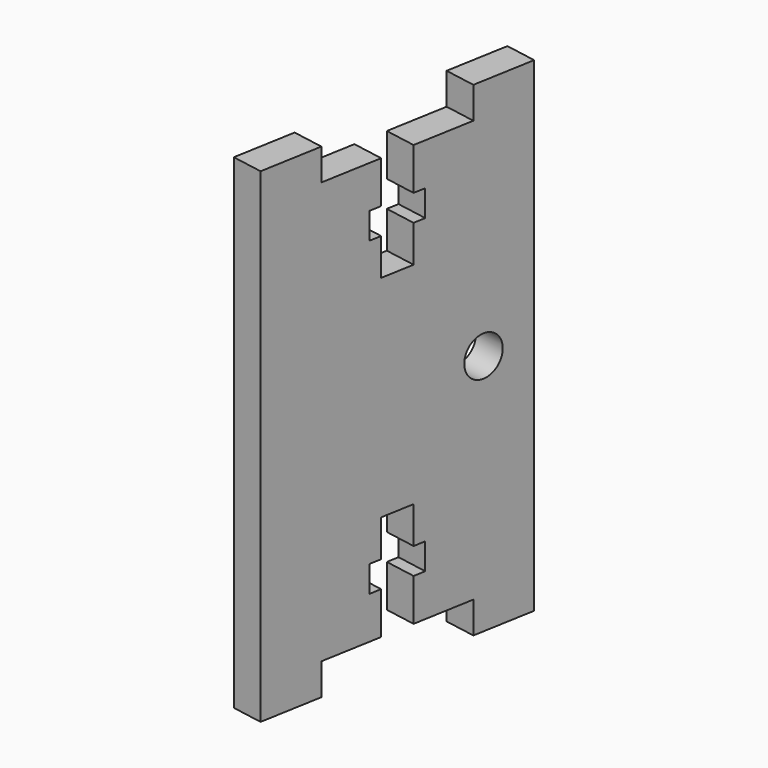
from build123d import *

# Parameters (mm, degrees)
SKETCH020_W             = 40
SKETCH020_H             = 27
SKETCH020_R             = 1.9
PAD007_DEPTH            = 3
SKETCH021_W             = 3
SKETCH021_H             = 6
PAD008_DEPTH            = 3
SKETCH021_MIRRORED_2_W  = 3
SKETCH021_MIRRORED_2_H  = 6
PAD008_MIRRORED_2_DEPTH = 3
POCKET013_DEPTH         = 109.846683
BODY005_ROLL_ANGLE      = -90
BODY005_PLACEMENT_ANGLE = -10


with BuildPart() as part:
    # Sketch020 → Pad007 (new body)
    with BuildSketch(Plane.YZ):
        Rectangle(SKETCH020_W, SKETCH020_H)
        with Locations((0, 8.5)):
            Circle(SKETCH020_R, mode=Mode.SUBTRACT)
    extrude(amount=PAD007_DEPTH)

    # Sketch021 (on Face7 of Pad007) → Pad008 (join)
    with BuildSketch(Plane.YZ.offset(3)):
        with Locations((-21.5, 10.5)):
            Rectangle(SKETCH021_W, SKETCH021_H)
    pad008 = extrude(amount=-PAD008_DEPTH)

    # Sketch021 Mirrored 2 → Pad008 Mirrored 2 (add)
    with BuildSketch(Plane(origin=(3, 0, 0), x_dir=(0, -1, 0), z_dir=(-1, 0, 0))):
        with Locations((-21.5, 10.5)):
            Rectangle(SKETCH021_MIRRORED_2_W, SKETCH021_MIRRORED_2_H)
    pad008_mirrored_2 = extrude(amount=PAD008_MIRRORED_2_DEPTH)

    # Mirrored001: Pad008, Pad008 Mirrored 2 across Sketch021 H_Axis
    add(pad008.mirror(Plane(origin=(3, 0, 0), x_dir=(1, 0, 0), z_dir=(0, 0, 1))))
    add(pad008_mirrored_2.mirror(Plane(origin=(3, 0, 0), x_dir=(1, 0, 0), z_dir=(0, 0, 1))))

    # Sketch022 (on Face12 of MultiTransform) → Pocket013 (cut, through all)
    with BuildSketch(Plane.YZ.offset(3)):
        Polygon((-20, 1.6), (-16, 1.6), (-16, 2.75), (-13.5, 2.75), (-13.5, 1.6), (-10, 1.6), (-10, -1.6), (-13.5, -1.6), (-13.5, -2.75), (-16, -2.75), (-16, -1.6), (-20, -1.6), align=None)
    pocket013 = extrude(amount=-POCKET013_DEPTH, mode=Mode.SUBTRACT)

    # Mirrored002: Pocket013 across Sketch022 V_Axis
    add(pocket013.mirror(Plane(origin=(3, 0, 0), x_dir=(1, 0, 0), z_dir=(0, 1, 0))), mode=Mode.SUBTRACT)


with BuildPart() as part_1:
    # Body005 roll: moved
    add(part.part.rotate(Axis((0, 0, 0), (1, 0, 0)), BODY005_ROLL_ANGLE))


with BuildPart() as part_2:
    # Body005 placement: moved
    add(part_1.part.moved(Location((-14.721708, -14.689711, -20))).rotate(Axis((-14.721708, -14.689711, -20), (0, 0, 1)), BODY005_PLACEMENT_ANGLE))


solid = part_2.part
